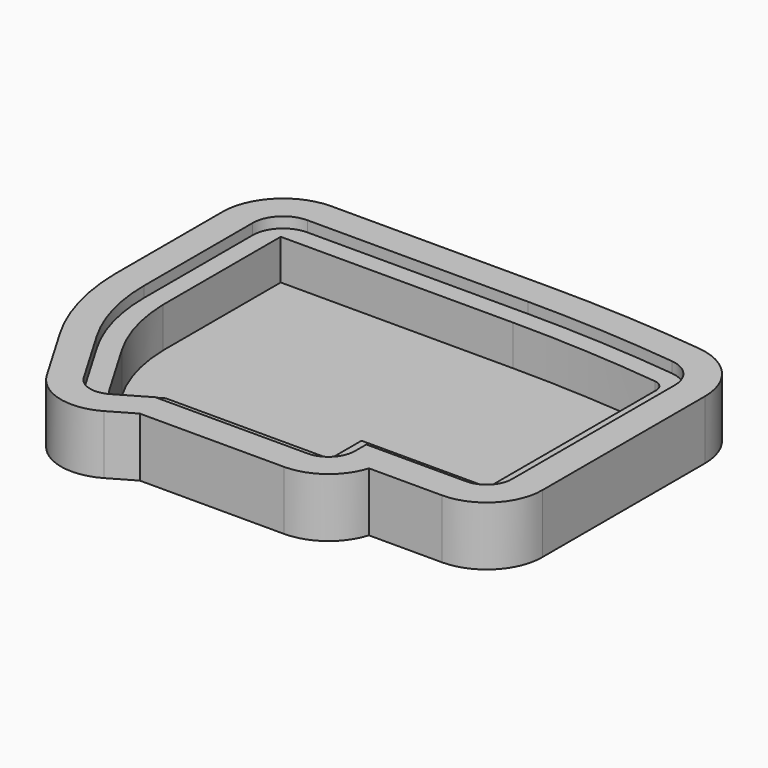
from build123d import *

# Parameters (mm, degrees)
PAD_DEPTH       = 22
POCKET_DEPTH    = 4
POCKET001_DEPTH = 19


with BuildPart() as part:
    # Sketch009 → Pad (new body)
    with BuildSketch(Plane.XY):
        with BuildLine():
            Line((-32.90217, 117.6749), (49.38771, 117.6749))
            ThreePointArc((106.745131, 114.51814), (78.109822, 116.885113), (49.38771, 117.6749))
            ThreePointArc((126.84683, 92.07491), (121.086688, 107.139578), (106.745131, 114.51814))
            Line((126.84683, 16.22193), (126.84683, 92.07491))
            ThreePointArc((106.09683, -4.52807), (120.769296, 1.549464), (126.84683, 16.22193))
            Line((78.817048, -4.52807), (106.09683, -4.52807))
            ThreePointArc((58.97856, -19.25), (71.330694, -15.167467), (78.817048, -4.52807))
            Line((5.169501, -19.25), (58.97856, -19.25))
            Line((-3.90385, -24.50197), (5.169501, -19.25))
            ThreePointArc((-31.01326, -17.365921), (-18.929599, -26.522348), (-3.90385, -24.50197))
            Line((-44.46621, 5.526299), (-31.01326, -17.365921))
            ThreePointArc((-55.481775, 44.57846), (-52.490743, 24.342472), (-44.46621, 5.526299))
            Line((-55.481775, 95.095295), (-55.481775, 44.57846))
            ThreePointArc((-32.90217, 117.6749), (-48.868362, 111.061487), (-55.481775, 95.095295))
        make_face()
    extrude(amount=-PAD_DEPTH)

    # Sketch010 → Pocket (cut)
    with BuildSketch(Plane.XY):
        with BuildLine():
            Line((49.38771, 106.4249), (-32.899678, 106.4249))
            ThreePointArc((-32.899678, 106.4249), (-40.910919, 103.106535), (-44.229283, 95.095295))
            Line((-44.229283, 95.095295), (-44.229283, 44.57846))
            ThreePointArc((-44.229283, 44.57846), (-41.906554, 27.194286), (-35.101321, 11.029714))
            Line((-21.648371, -11.862506), (-35.101321, 11.029714))
            ThreePointArc((-21.648371, -11.862506), (-16.164503, -16.017921), (-9.345444, -15.101023))
            Line((2.252489, -8.387738), (-9.345444, -15.101023))
            Line((58.97856, -8.387738), (2.252489, -8.387738))
            ThreePointArc((58.97856, -8.387738), (65.954415, -5.498245), (68.843908, 1.47761))
            Line((68.843908, 6.72193), (68.843908, 1.47761))
            Line((106.09683, 6.72193), (68.843908, 6.72193))
            ThreePointArc((106.09683, 6.72193), (112.814344, 9.504416), (115.59683, 16.22193))
            Line((115.59683, 92.07491), (115.59683, 16.22193))
            ThreePointArc((115.59683, 92.07491), (112.706605, 99.633799), (105.510546, 103.336087))
            ThreePointArc((105.510546, 103.336087), (77.491595, 105.652113), (49.38771, 106.4249))
        make_face()
    extrude(amount=-POCKET_DEPTH, mode=Mode.SUBTRACT)

    # Sketch011 → Pocket001 (cut)
    with BuildSketch(Plane.XY):
        with BuildLine():
            Line((-37.227702, 99.4249), (49.38771, 99.4249))
            ThreePointArc((104.74236, 96.378365), (77.106921, 98.66269), (49.38771, 99.4249))
            ThreePointArc((108.59683, 92.07491), (107.492332, 94.963537), (104.74236, 96.378365))
            Line((108.59683, 16.22193), (108.59683, 92.07491))
            ThreePointArc((106.09683, 13.72193), (107.864597, 14.454163), (108.59683, 16.22193))
            Line((61.45617, 13.72193), (106.09683, 13.72193))
            Line((61.45617, 1.47761), (61.45617, 13.72193))
            ThreePointArc((58.97856, -1), (60.730495, -0.274325), (61.45617, 1.47761))
            Line((0.268545, -1), (58.97856, -1))
            Line((-13.046428, -8.707168), (0.268545, -1))
            ThreePointArc((-15.279039, -8.119475), (-14.283882, -8.873557), (-13.046428, -8.707168))
            Line((-28.731989, 14.772745), (-15.279039, -8.119475))
            ThreePointArc((-37.227702, 44.57846), (-34.879927, 29.13401), (-28.731989, 14.772745))
            Line((-37.227702, 99.4249), (-37.227702, 44.57846))
        make_face()
    extrude(amount=-POCKET001_DEPTH, mode=Mode.SUBTRACT)


solid = part.part
